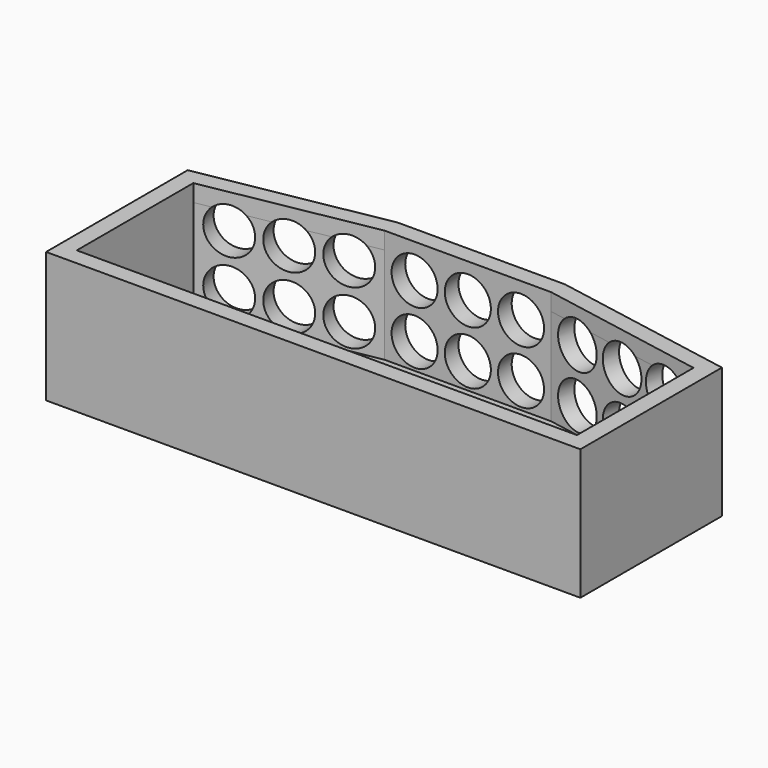
from build123d import *

# Parameters (mm, degrees)
SKETCH_W          = 100
SKETCH_H          = 45
PAD_DEPTH         = 20
PAD_FACE2_W       = 45
PAD_FACE2_H       = 20
POCKET_DEPTH      = 3
POCKET_FACE5_W    = 45
POCKET_FACE5_H    = 20
POCKET001_DEPTH   = 3
POCKET001_FACE1_W = 94
POCKET001_FACE1_H = 20
POCKET002_DEPTH   = 8
POCKET003_DEPTH   = 20
POCKET004_DEPTH   = 17
PAD001_DEPTH      = 2
SKETCH003_R       = 4.025
POCKET005_DEPTH   = 5
SKETCH004_R       = 4.025
POCKET006_DEPTH   = 5
SKETCH005_R       = 4.025
POCKET007_DEPTH   = 5
SKETCH006_R       = 4
SKETCH006_R_2     = 2
POCKET008_DEPTH   = 5
SKETCH007_R       = 3
POCKET009_DEPTH   = 1
PAD002_DEPTH      = 1
SKETCH008_R       = 4.05
POCKET010_DEPTH   = 5
SKETCH009_R       = 4.05
POCKET011_DEPTH   = 5
SKETCH010_R       = 4.05
POCKET012_DEPTH   = 5
SKETCH011_R       = 4
POCKET013_DEPTH   = 5
SKETCH012_W       = 15.333549
SKETCH012_H       = 10.93085
PAD003_DEPTH      = 3


with BuildPart() as part:
    # Sketch → Pad (new body)
    with BuildSketch(Plane.XY):
        with Locations((50, 22.5)):
            Rectangle(SKETCH_W, SKETCH_H)
    extrude(amount=PAD_DEPTH)

    # Pad Face2 → Pocket (cut)
    with BuildSketch(Plane(origin=(100, 22.5, 10), x_dir=(0, -1, 0), z_dir=(1, 0, 0))):
        Rectangle(PAD_FACE2_W, PAD_FACE2_H)
    extrude(amount=-POCKET_DEPTH, mode=Mode.SUBTRACT)

    # Pocket Face5 → Pocket001 (cut)
    with BuildSketch(Plane(origin=(0, 22.5, 10), x_dir=(0, 1, 0), z_dir=(-1, 0, 0))):
        Rectangle(POCKET_FACE5_W, POCKET_FACE5_H)
    extrude(amount=-POCKET001_DEPTH, mode=Mode.SUBTRACT)

    # Pocket001 Face1 → Pocket002 (cut)
    with BuildSketch(Plane(origin=(50, 0, 10), x_dir=(-1, 0, 0), z_dir=(0, -1, 0))):
        Rectangle(POCKET001_FACE1_W, POCKET001_FACE1_H)
    extrude(amount=-POCKET002_DEPTH, mode=Mode.SUBTRACT)

    # Sketch001 (on Face6 of Pocket002) → Pocket003 (cut)
    with BuildSketch(Plane.XY.offset(20)):
        Polygon((3, 45), (3, 39.13), (35.3, 45), align=None)
        Polygon((64.7, 45), (97, 45), (97, 39.13), align=None)
    extrude(amount=-POCKET003_DEPTH, mode=Mode.SUBTRACT)

    # Sketch002 (on Face8 of Pocket003) → Pocket004 (cut)
    with BuildSketch(Plane.XY.offset(20)):
        Polygon((6, 36.6260629355), (6, 11), (94, 11), (94, 36.6260629355), (64.6580556127, 42), (35.3419443873, 42), align=None)
    extrude(amount=-POCKET004_DEPTH, mode=Mode.SUBTRACT)

    # Pocket004 Face8 → Pad001 (add)
    with BuildSketch(Plane(origin=(50, 25.1421826555, 20), x_dir=(0, 1, 0), z_dir=(0, 0, 1))):
        Polygon((-17.1421826555, 47), (-17.1421826555, -47), (13.9878173445, -47), (19.8578173445, -14.7), (19.8578173445, 14.7), (13.9878173445, 47), align=None)
        Polygon((-14.1421826555, 44), (11.4838802799, 44), (16.8578173445, 14.6580556127), (16.8578173445, -14.6580556127), (11.4838802799, -44), (-14.1421826555, -44), align=None, mode=Mode.SUBTRACT)
    extrude(amount=PAD001_DEPTH)

    # Sketch003 (on Face6 of Pad001) → Pocket005 (cut)
    with BuildSketch(Plane(origin=(0, 45, 0), x_dir=(-1, 0, 0), z_dir=(0, 1, 0))):
        with Locations((-59.3625, 16.975)):
            Circle(SKETCH003_R)
        with Locations((-50, 16.975)):
            Circle(SKETCH003_R)
        with Locations((-40.6375, 16.975)):
            Circle(SKETCH003_R)
        with Locations((-59.3625, 7.525)):
            Circle(SKETCH003_R)
        with Locations((-50, 7.525)):
            Circle(SKETCH003_R)
        with Locations((-40.6375, 7.525)):
            Circle(SKETCH003_R)
    extrude(amount=-POCKET005_DEPTH, mode=Mode.SUBTRACT)

    # Sketch004 (on Face6 of Pocket005) → Pocket006 (cut)
    with BuildSketch(Plane(origin=(9.9850961575, 54.9435444444, 0), x_dir=(-0.983884528, 0.178805021, 0), z_dir=(0.178805021, 0.983884528, 0))):
        with Locations((-80.0098530156, 16.975)):
            Circle(SKETCH004_R)
        with Locations((-70.9736030156, 16.975)):
            Circle(SKETCH004_R)
        with Locations((-61.6111030156, 16.975)):
            Circle(SKETCH004_R)
        with Locations((-80.3361030156, 7.525)):
            Circle(SKETCH004_R)
        with Locations((-70.9736030156, 7.525)):
            Circle(SKETCH004_R)
        with Locations((-61.6111030156, 7.525)):
            Circle(SKETCH004_R)
    extrude(amount=-POCKET006_DEPTH, mode=Mode.SUBTRACT)

    # Sketch005 (on Face4 of Pocket006) → Pocket007 (cut)
    with BuildSketch(Plane(origin=(-6.7879726028, 37.3511950719, 0), x_dir=(-0.983884528, -0.178805021, 0), z_dir=(-0.178805021, 0.983884528, 0))):
        with Locations((-36.7773497852, 16.975)):
            Circle(SKETCH005_R)
        with Locations((-27.4148497852, 16.975)):
            Circle(SKETCH005_R)
        with Locations((-18.0523497852, 16.975)):
            Circle(SKETCH005_R)
        with Locations((-36.7773497852, 7.525)):
            Circle(SKETCH005_R)
        with Locations((-27.4148497852, 7.525)):
            Circle(SKETCH005_R)
        with Locations((-18.0523497852, 7.525)):
            Circle(SKETCH005_R)
    extrude(amount=-POCKET007_DEPTH, mode=Mode.SUBTRACT)

    # Sketch006 (on Face1 of Pocket007) → Pocket008 (cut)
    with BuildSketch(Plane(origin=(0, 0, 0), x_dir=(1, 0, 0), z_dir=(0, 0, -1))):
        with Locations((50, -23)):
            Circle(SKETCH006_R)
        with Locations((65.7, -18)):
            Circle(SKETCH006_R_2)
        with Locations((34.3, -18)):
            Circle(SKETCH006_R_2)
        with Locations((20, -23)):
            Circle(SKETCH006_R_2)
        with Locations((80, -23)):
            Circle(SKETCH006_R_2)
    extrude(amount=-POCKET008_DEPTH, mode=Mode.SUBTRACT)

    # Sketch007 (on Face1 of Pocket008) → Pocket009 (cut)
    with BuildSketch(Plane(origin=(0, 0, 0), x_dir=(1, 0, 0), z_dir=(0, 0, -1))):
        with Locations((20, -23)):
            Circle(SKETCH007_R)
        with Locations((80, -23)):
            Circle(SKETCH007_R)
    extrude(amount=-POCKET009_DEPTH, mode=Mode.SUBTRACT)

    # Pocket009 Face13 → Pad002 (add)
    with BuildSketch(Plane(origin=(50, 25.1421826555, 22), x_dir=(0, 1, 0), z_dir=(0, 0, 1))):
        Polygon((-17.1421826555, 47), (-17.1421826555, -47), (13.9878173445, -47), (19.8578173445, -14.7), (19.8578173445, 14.7), (13.9878173445, 47), align=None)
        Polygon((-14.1421826555, 44), (11.4838802799, 44), (16.8578173445, 14.6580556127), (16.8578173445, -14.6580556127), (11.4838802799, -44), (-14.1421826555, -44), align=None, mode=Mode.SUBTRACT)
    extrude(amount=PAD002_DEPTH)

    # Sketch008 (on Face30 of Pad002) → Pocket010 (cut)
    with BuildSketch(Plane(origin=(0, 45, 0), x_dir=(-1, 0, 0), z_dir=(0, 1, 0))):
        with Locations((-59.3625, 16.975)):
            Circle(SKETCH008_R)
        with Locations((-50.000011, 16.975002)):
            Circle(SKETCH008_R)
        with Locations((-40.6375, 16.975)):
            Circle(SKETCH008_R)
        with Locations((-40.6375, 7.525)):
            Circle(SKETCH008_R)
        with Locations((-50, 7.525)):
            Circle(SKETCH008_R)
        with Locations((-59.3625, 7.525)):
            Circle(SKETCH008_R)
    extrude(amount=-POCKET010_DEPTH, mode=Mode.SUBTRACT)

    # Sketch009 (on Face6 of Pocket010) → Pocket011 (cut)
    with BuildSketch(Plane(origin=(9.9850961575, 54.9435444444, 0), x_dir=(-0.983884528, 0.178805021, 0), z_dir=(0.178805021, 0.983884528, 0))):
        with Locations((-80.0098530156, 16.975)):
            Circle(SKETCH009_R)
        with Locations((-70.9736030156, 16.975)):
            Circle(SKETCH009_R)
        with Locations((-61.6111030156, 16.975)):
            Circle(SKETCH009_R)
        with Locations((-61.6111030156, 7.525)):
            Circle(SKETCH009_R)
        with Locations((-70.9736030156, 7.525)):
            Circle(SKETCH009_R)
        with Locations((-80.3361030156, 7.525)):
            Circle(SKETCH009_R)
    extrude(amount=-POCKET011_DEPTH, mode=Mode.SUBTRACT)

    # Sketch010 (on Face5 of Pocket011) → Pocket012 (cut)
    with BuildSketch(Plane(origin=(-6.7879726028, 37.3511950719, 0), x_dir=(-0.983884528, -0.178805021, 0), z_dir=(-0.178805021, 0.983884528, 0))):
        with Locations((-36.7773497852, 16.975)):
            Circle(SKETCH010_R)
        with Locations((-27.4148497852, 16.975)):
            Circle(SKETCH010_R)
        with Locations((-18.0523497852, 16.975)):
            Circle(SKETCH010_R)
        with Locations((-18.0523497852, 7.525)):
            Circle(SKETCH010_R)
        with Locations((-27.4148497852, 7.525)):
            Circle(SKETCH010_R)
        with Locations((-36.7773497852, 7.525)):
            Circle(SKETCH010_R)
    extrude(amount=-POCKET012_DEPTH, mode=Mode.SUBTRACT)

    # Sketch011 (on Face3 of Pocket012) → Pocket013 (cut)
    with BuildSketch(Plane(origin=(3, 0, 0), x_dir=(0, -1, 0), z_dir=(-1, 0, 0))):
        with Locations((-20, 15)):
            Circle(SKETCH011_R)
    extrude(amount=-POCKET013_DEPTH, mode=Mode.SUBTRACT)

    # Sketch012 (on Face3 of Pocket013) → Pad003 (join)
    with BuildSketch(Plane(origin=(3, 0, 0), x_dir=(0, -1, 0), z_dir=(-1, 0, 0))):
        with Locations((-20.0389255, 14.391196)):
            Rectangle(SKETCH012_W, SKETCH012_H)
    extrude(amount=-PAD003_DEPTH)


solid = part.part
